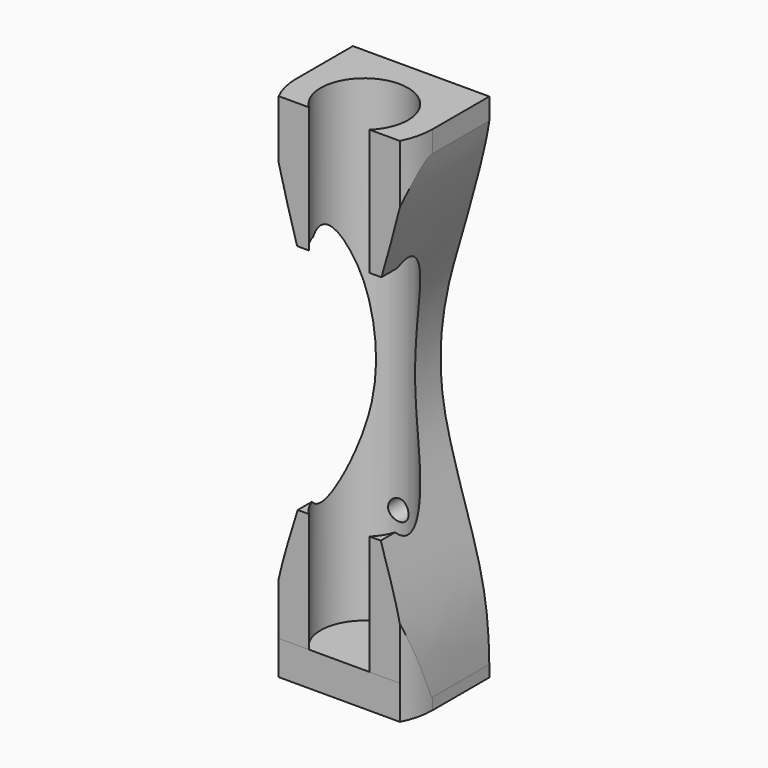
from build123d import *

# Parameters (mm, degrees)
F0_W      = 25.4
F0_H      = 88.9
F1_DEPTH  = 19.05
F3_DEPTH  = 88.9
F4_W      = 25.4
F4_H      = 19.0362427384
F5_DEPTH  = 6.35
F7_DEPTH  = 114.3
F8_R      = 1.905
F9_DEPTH  = 25.4
F10_W     = 32.515410101
F10_H     = 106.9501955062
F11_DEPTH = 25.4
F12_W     = 8.0266231671
F12_H     = 43.2058013976
F13_DEPTH = 25.4


with BuildPart() as f1:
    # F0 (on Front) → F1 (new body)
    with BuildSketch(Plane.XZ):
        with Locations((12.7, 44.45)):
            Rectangle(F0_W, F0_H)
    extrude(amount=F1_DEPTH)

    # F2 (on face) → F3 (cut)
    with BuildSketch(Plane(origin=(0, 0, 0), x_dir=(1, 0, 0), z_dir=(0, 0, -1))):
        with BuildLine():
            ThreePointArc((7.0488567528, 19.05), (9.5273125204, 5.7247895822), (20.828, 13.208))
            ThreePointArc((20.828, 13.208), (20.1832104178, 16.3806874796), (18.3511432472, 19.05))
            Line((18.3511432472, 19.05), (7.0488567528, 19.05))
        make_face()
    extrude(amount=-F3_DEPTH, mode=Mode.SUBTRACT)

    # F4 (on face) → F5 (join)
    with BuildSketch(Plane(origin=(0, 0, 0), x_dir=(1, 0, 0), z_dir=(0, 0, -1))):
        with Locations((12.7, 9.5181213692)):
            Rectangle(F4_W, F4_H)
    extrude(amount=F5_DEPTH)

    # F6 (on face) → F7 (cut, symmetric)
    with BuildSketch(Plane(origin=(0, 0, 0), x_dir=(1, 0, 0), z_dir=(0, 0, -1))):
        with BuildLine():
            ThreePointArc((0, 13.208), (12.7, 25.908), (25.4, 13.208))
            Line((25.4, 13.208), (31.75, 13.208))
            ThreePointArc((31.75, 13.208), (12.7, 32.258), (-6.35, 13.208))
            Line((-6.35, 13.208), (0, 13.208))
        make_face()
    extrude(amount=F7_DEPTH, both=True, mode=Mode.SUBTRACT)

    # F8 (on face) → F9 (cut)
    with BuildSketch(Plane(origin=(0, 0, 0), x_dir=(-1, 0, 0), z_dir=(0, 1, 0))):
        with Locations((-12.7, 69.8340386152)):
            Circle(F8_R)
        with Locations((-12.7, 19.0340386152)):
            Circle(F8_R)
    extrude(amount=-F9_DEPTH, mode=Mode.SUBTRACT)

    # F10 (on face) → F11 (cut)
    with BuildSketch(Plane.XZ.offset(19.05)):
        with Locations((13.0842068465, 40.5728658661)):
            Rectangle(F10_W, F10_H)
        with BuildLine():
            add(Edge.make_bspline(
                [(0, 91.1924168468), (-0.2072802179, 89.5285500339), (-0.8109265431, 84.6829979709), (5.8714529307, 61.9987966996), (8.3331655037, 53.3087405244), (10.465405729, 35.4025704859), (-0.1149214783, 10.0534714859), (-0.0357759636, -2.9865391809), (0, -8.8809849694)],
                knots=[0, 0, 0, 0, 0.1040364256, 0.3029773253, 0.4335154667, 0.6031258459, 0.8206018963, 1, 1, 1, 1], degree=3))
            Line((0, 91.1924168468), (25.4, 91.1924168468))
            add(Edge.make_bspline(
                [(25.4, 91.1924168468), (25.6072802179, 89.5285500339), (26.2109265431, 84.6829979709), (19.5285470693, 61.9987966996), (17.0668344963, 53.3087405244), (14.934594271, 35.4025704859), (25.5149214783, 10.0534714859), (25.4357759636, -2.9865391809), (25.4, -8.8809849694)],
                knots=[0, 0, 0, 0, 0.1040364256, 0.3029773253, 0.4335154667, 0.6031258459, 0.8206018963, 1, 1, 1, 1], degree=3))
            Line((25.4, -8.8809849694), (0, -8.8809849694))
        make_face(mode=Mode.SUBTRACT)
    extrude(amount=-F11_DEPTH, mode=Mode.SUBTRACT)

    # F12 (on face) → F13 (cut)
    with BuildSketch(Plane(origin=(0, 0, 0), x_dir=(0, -1, 0), z_dir=(-1, 0, 0))):
        with Locations((16.6324316524, 43.8246708363)):
            Rectangle(F12_W, F12_H)
    extrude(amount=-F13_DEPTH, mode=Mode.SUBTRACT)


solid = f1.part
